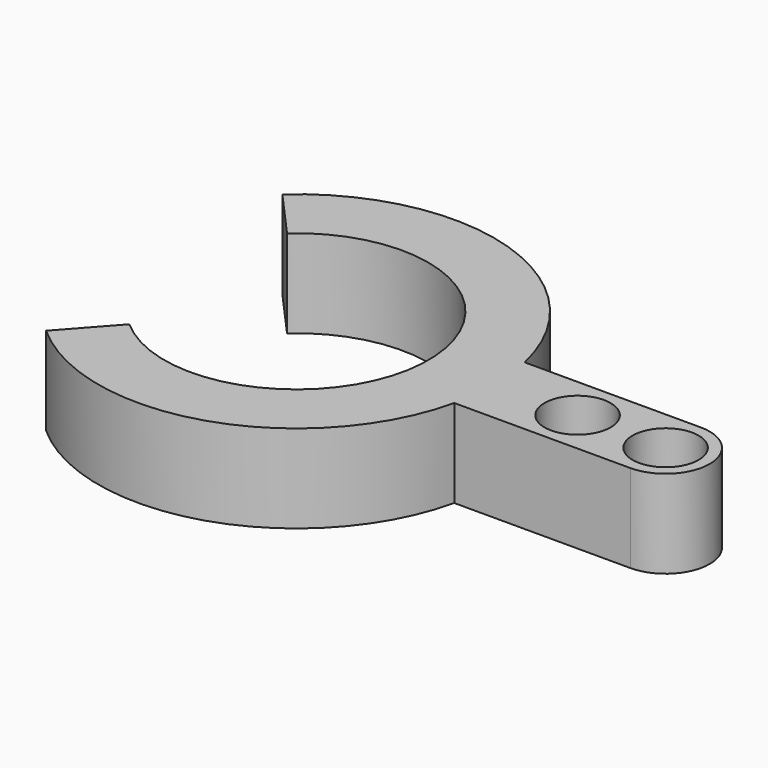
from build123d import *

# Parameters (mm, degrees)
F1_DEPTH = 6.35
F2_R     = 2.38125
F3_DEPTH = 6.35


with BuildPart() as f1:
    # F0 (on Top) → F1 (new body)
    with BuildSketch(Plane.XY):
        with BuildLine():
            Line((-9.525, 10.649274), (-6.35, 7.099516))
            ThreePointArc((-6.35, 7.099516), (9.525, 0), (-6.35, -7.099516))
            Line((-6.35, -7.099516), (-9.525, -10.649274))
            ThreePointArc((-9.525, -10.649274), (14.2875, 0), (-9.525, 10.649274))
        make_face()
    extrude(amount=F1_DEPTH)

    # F2 (on Top) → F3 (join, through all)
    with BuildSketch(Plane.XY):
        with BuildLine():
            Line((26.630256, 3.175), (13.930256, 3.175))
            ThreePointArc((13.930256, 3.175), (14.2875, 0), (13.930256, -3.175))
            Line((13.930256, -3.175), (26.630256, -3.175))
            ThreePointArc((26.630256, -3.175), (29.805256, 0), (26.630256, 3.175))
        make_face()
        with Locations((20.280256, 0)):
            Circle(F2_R, mode=Mode.SUBTRACT)
        with Locations((26.630256, 0)):
            Circle(F2_R, mode=Mode.SUBTRACT)
    extrude(amount=F3_DEPTH)


solid = f1.part
